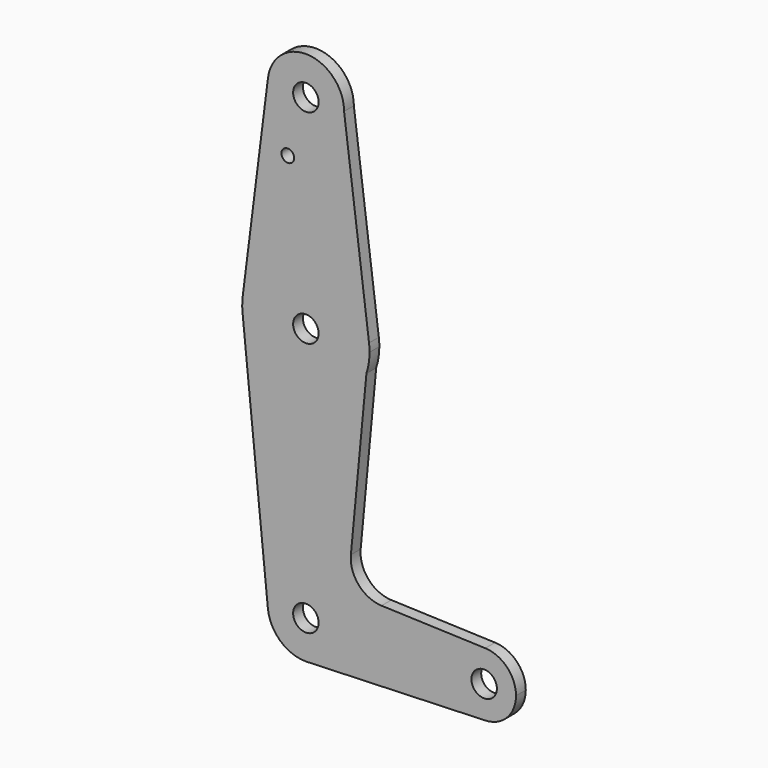
from build123d import *

# Parameters (mm, degrees)
F0_R     = 3.175
F0_R_2   = 1.5875
F1_DEPTH = 3.048


with BuildPart() as f1:
    # F0 (on Front) → F1 (new body)
    with BuildSketch(Plane.XZ):
        with BuildLine():
            ThreePointArc((0.677344, -9.500886), (6.970557, -6.491299), (9.525, 0))
            ThreePointArc((9.525, 0), (-0.476848, 9.513056), (-9.477255, -0.9525))
            ThreePointArc((-9.477255, -0.9525), (-6.389564, -7.063929), (0, -9.525))
            Line((0, -9.525), (0.677344, -9.500886))
        make_face()
        Circle(F0_R, mode=Mode.SUBTRACT)
        with BuildLine():
            ThreePointArc((-9.477255, -0.9525), (-0.476848, 9.513056), (9.525, 0))
            ThreePointArc((9.525, 0), (6.970557, -6.491299), (0.677344, -9.500886))
            Line((0.677344, -9.500886), (44.732405, -7.932475))
            ThreePointArc((44.732405, -7.932475), (36.5125, 0.000539), (44.733482, 7.932436))
            Line((44.733482, 7.932436), (18.854029, 8.857292))
            ThreePointArc((18.854029, 8.857292), (13.163609, 11.557159), (11.22291, 17.54914))
            Line((11.22291, 17.54914), (15.094026, 58.582073))
            ThreePointArc((15.094026, 58.582073), (-1.701742, 47.716474), (-15.795426, 61.9125))
            Line((-15.795426, 61.9125), (-9.477255, -0.9525))
        make_face()
        with BuildLine():
            ThreePointArc((0, -9.525), (0.338886, -9.51897), (0.677344, -9.500886))
            Line((0.677344, -9.500886), (0, -9.525))
        make_face()
        with BuildLine():
            ThreePointArc((-15.750488, 65.484375), (-15.873744, 63.699705), (-15.795426, 61.9125))
            ThreePointArc((-15.795426, 61.9125), (-1.701742, 47.716474), (15.094026, 58.582073))
            Line((15.094026, 58.582073), (15.747457, 65.508289))
            ThreePointArc((15.747457, 65.508289), (-0.012053, 79.374995), (-15.750488, 65.484375))
        make_face()
        with Locations((0, 63.5)):
            Circle(F0_R, mode=Mode.SUBTRACT)
        with BuildLine():
            ThreePointArc((44.733482, 7.932436), (36.5125, 0.000539), (44.732405, -7.932475))
            ThreePointArc((44.732405, -7.932475), (50.161633, -5.51191), (52.3875, 0))
            ThreePointArc((52.3875, 0), (50.162007, 5.511523), (44.733482, 7.932436))
        make_face()
        with Locations((44.45, 0)):
            Circle(F0_R, mode=Mode.SUBTRACT)
        with BuildLine():
            Line((-9.450293, 115.490625), (-15.750488, 65.484375))
            ThreePointArc((-15.750488, 65.484375), (-0.012053, 79.374995), (15.747457, 65.508289))
            Line((15.747457, 65.508289), (9.525, 114.3))
            ThreePointArc((9.525, 114.3), (-0.596483, 104.793695), (-9.450293, 115.490625))
        make_face()
        with Locations((-4.506959, 100.0252)):
            Circle(F0_R_2, mode=Mode.SUBTRACT)
        with BuildLine():
            Line((15.747457, 65.508289), (15.094026, 58.582073))
            ThreePointArc((15.094026, 58.582073), (15.678541, 61.010225), (15.875, 63.5))
            ThreePointArc((15.875, 63.5), (15.843082, 64.506168), (15.747457, 65.508289))
        make_face()
        with BuildLine():
            ThreePointArc((9.525, 114.3), (0.596483, 123.806305), (-9.450293, 115.490625))
            ThreePointArc((-9.450293, 115.490625), (-0.596483, 104.793695), (9.525, 114.3))
        make_face()
        with Locations((0, 114.3)):
            Circle(F0_R, mode=Mode.SUBTRACT)
    extrude(amount=F1_DEPTH)


solid = f1.part
